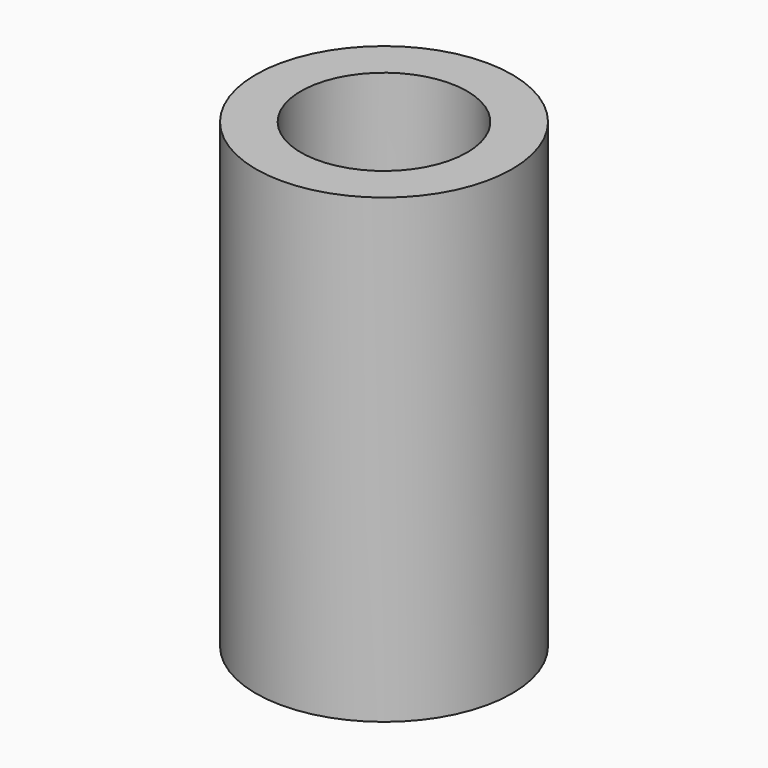
from build123d import *

# Parameters (mm, degrees)
F0_R     = 5.55
F0_R_2   = 2.55
F1_DEPTH = 10
F2_R     = 5.55
F2_R_2   = 3.6
F3_DEPTH = 10
F4_R     = 1.25
F5_DEPTH = 5.551


with BuildPart() as f1:
    # F0 (on Top) → F1 (new body)
    with BuildSketch(Plane.XY):
        Circle(F0_R)
        Circle(F0_R_2, mode=Mode.SUBTRACT)
    extrude(amount=F1_DEPTH)

    # F2 (on face) → F3 (join)
    with BuildSketch(Plane.XY.offset(10)):
        Circle(F2_R)
        Circle(F2_R_2, mode=Mode.SUBTRACT)
    extrude(amount=F3_DEPTH)

    # F4 (on Right) → F5 (cut, through all)
    with BuildSketch(Plane.YZ):
        with Locations((0, 15)):
            Circle(F4_R)
        with Locations((0, 5)):
            Circle(F4_R)
    extrude(amount=-F5_DEPTH, mode=Mode.SUBTRACT)


solid = f1.part
